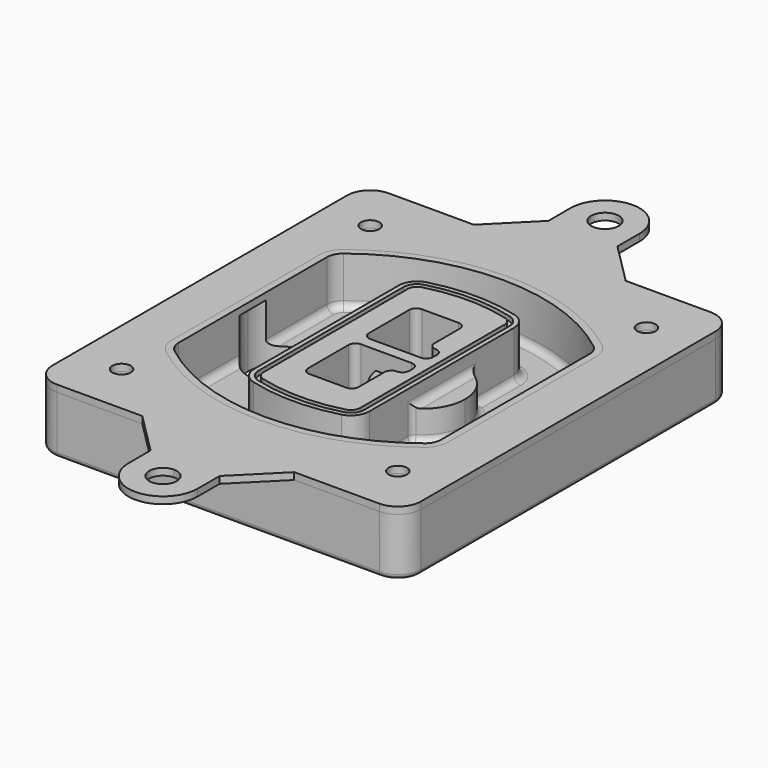
from build123d import *

# Parameters (mm, degrees)
F0_R      = 4
F1_DEPTH  = 25
F2_DEPTH  = 3
F3_DEPTH  = 18
F5_DEPTH  = 21
F6_DEPTH  = 2
F8_DEPTH  = 20
F9_DEPTH  = 16
F10_DEPTH = 25
F7_R      = 6
F7_R_2    = 4
F11_DEPTH = 6
F13_DEPTH = 9
F14_R     = 3
F15_R     = 2
F16_R     = 6
F16_R_2   = 4
F17_DEPTH = 3


with BuildPart() as f1:
    # F0 (on Top) → F1 (new body)
    with BuildSketch(Plane.XY):
        with BuildLine():
            ThreePointArc((14.05, 38.3825811321), (16.9789321881, 31.3115133202), (24.05, 28.3825811321))
            Line((24.05, 28.3825811321), (164.05, 28.3825811321))
            ThreePointArc((164.05, 28.3825811321), (171.1210678119, 31.3115133202), (174.05, 38.3825811321))
            Line((174.05, 38.3825811321), (174.05, 198.3825811321))
            ThreePointArc((174.05, 198.3825811321), (171.1210678119, 205.4536489439), (164.05, 208.3825811321))
            Line((164.05, 208.3825811321), (24.05, 208.3825811321))
            ThreePointArc((24.05, 208.3825811321), (16.9789321881, 205.4536489439), (14.05, 198.3825811321))
            Line((14.05, 198.3825811321), (14.05, 38.3825811321))
        make_face()
        with Locations((34.05, 50.8825811321)):
            Circle(F0_R, mode=Mode.SUBTRACT)
        with Locations((154.05, 50.8825811321)):
            Circle(F0_R, mode=Mode.SUBTRACT)
        with BuildLine():
            ThreePointArc((30.05, 158.6760234193), (31.4679615202, 164.8154295545), (35.4346153846, 169.7112011673))
            ThreePointArc((35.4346153846, 169.7112011673), (94.05, 189.8825811321), (152.6653846154, 169.7112011673))
            ThreePointArc((152.6653846154, 169.7112011673), (156.6320384798, 164.8154295545), (158.05, 158.6760234193))
            Line((158.05, 158.6760234193), (158.05, 78.0891388448))
            ThreePointArc((158.05, 78.0891388448), (156.6320384798, 71.9497327097), (152.6653846154, 67.0539610969))
            ThreePointArc((152.6653846154, 67.0539610969), (94.05, 46.8825811321), (35.4346153846, 67.0539610969))
            ThreePointArc((35.4346153846, 67.0539610969), (31.4679615202, 71.9497327097), (30.05, 78.0891388448))
            Line((30.05, 78.0891388448), (30.05, 158.6760234193))
        make_face(mode=Mode.SUBTRACT)
        with Locations((34.05, 185.8825811321)):
            Circle(F0_R, mode=Mode.SUBTRACT)
        with Locations((154.05, 185.8825811321)):
            Circle(F0_R, mode=Mode.SUBTRACT)
        with BuildLine():
            ThreePointArc((152.6653846154, 169.7112011673), (94.05, 189.8825811321), (35.4346153846, 169.7112011673))
            ThreePointArc((35.4346153846, 169.7112011673), (31.4679615202, 164.8154295545), (30.05, 158.6760234193))
            Line((30.05, 158.6760234193), (30.05, 78.0891388448))
            ThreePointArc((30.05, 78.0891388448), (31.4679615202, 71.9497327097), (35.4346153846, 67.0539610969))
            ThreePointArc((35.4346153846, 67.0539610969), (94.05, 46.8825811321), (152.6653846154, 67.0539610969))
            ThreePointArc((152.6653846154, 67.0539610969), (156.6320384798, 71.9497327097), (158.05, 78.0891388448))
            Line((158.05, 78.0891388448), (158.05, 158.6760234193))
            ThreePointArc((158.05, 158.6760234193), (156.6320384798, 164.8154295545), (152.6653846154, 169.7112011673))
        make_face()
        with BuildLine():
            Line((34.05, 78.0891388448), (34.05, 158.6760234193))
            ThreePointArc((34.05, 158.6760234193), (35.0628296573, 163.0613135158), (37.8961538462, 166.5582932393))
            ThreePointArc((37.8961538462, 166.5582932393), (94.05, 185.8825811321), (150.2038461538, 166.5582932393))
            ThreePointArc((150.2038461538, 166.5582932393), (153.0371703427, 163.0613135158), (154.05, 158.6760234193))
            Line((154.05, 158.6760234193), (154.05, 78.0891388448))
            ThreePointArc((154.05, 78.0891388448), (153.0371703427, 73.7038487483), (150.2038461538, 70.2068690248))
            ThreePointArc((150.2038461538, 70.2068690248), (94.05, 50.8825811321), (37.8961538462, 70.2068690248))
            ThreePointArc((37.8961538462, 70.2068690248), (35.0628296573, 73.7038487483), (34.05, 78.0891388448))
        make_face(mode=Mode.SUBTRACT)
        with BuildLine():
            ThreePointArc((37.8961538462, 166.5582932393), (35.0628296573, 163.0613135158), (34.05, 158.6760234193))
            Line((34.05, 158.6760234193), (34.05, 78.0891388448))
            ThreePointArc((34.05, 78.0891388448), (35.0628296573, 73.7038487483), (37.8961538462, 70.2068690248))
            ThreePointArc((37.8961538462, 70.2068690248), (94.05, 50.8825811321), (150.2038461538, 70.2068690248))
            ThreePointArc((150.2038461538, 70.2068690248), (153.0371703427, 73.7038487483), (154.05, 78.0891388448))
            Line((154.05, 78.0891388448), (154.05, 158.6760234193))
            ThreePointArc((154.05, 158.6760234193), (153.0371703427, 163.0613135158), (150.2038461538, 166.5582932393))
            ThreePointArc((150.2038461538, 166.5582932393), (94.05, 185.8825811321), (37.8961538462, 166.5582932393))
        make_face()
        with BuildLine():
            ThreePointArc((148.3576923077, 164.1936122933), (150.3410192399, 161.7457264869), (151.05, 158.6760234193))
            Line((151.05, 158.6760234193), (151.05, 78.0891388448))
            ThreePointArc((151.05, 78.0891388448), (150.3410192399, 75.0194357772), (148.3576923077, 72.5715499708))
            ThreePointArc((148.3576923077, 72.5715499708), (94.05, 53.8825811321), (39.7423076923, 72.5715499708))
            ThreePointArc((39.7423076923, 72.5715499708), (37.7589807601, 75.0194357772), (37.05, 78.0891388448))
            Line((37.05, 78.0891388448), (37.05, 158.6760234193))
            ThreePointArc((37.05, 158.6760234193), (37.7589807601, 161.7457264869), (39.7423076923, 164.1936122933))
            ThreePointArc((39.7423076923, 164.1936122933), (94.05, 182.8825811321), (148.3576923077, 164.1936122933))
        make_face(mode=Mode.SUBTRACT)
        with BuildLine():
            Line((151.05, 78.0891388448), (151.05, 158.6760234193))
            ThreePointArc((151.05, 158.6760234193), (150.3410192399, 161.7457264869), (148.3576923077, 164.1936122933))
            ThreePointArc((148.3576923077, 164.1936122933), (94.05, 182.8825811321), (39.7423076923, 164.1936122933))
            ThreePointArc((39.7423076923, 164.1936122933), (37.7589807601, 161.7457264869), (37.05, 158.6760234193))
            Line((37.05, 158.6760234193), (37.05, 78.0891388448))
            ThreePointArc((37.05, 78.0891388448), (37.7589807601, 75.0194357772), (39.7423076923, 72.5715499708))
            ThreePointArc((39.7423076923, 72.5715499708), (94.05, 53.8825811321), (148.3576923077, 72.5715499708))
            ThreePointArc((148.3576923077, 72.5715499708), (150.3410192399, 75.0194357772), (151.05, 78.0891388448))
        make_face()
    extrude(amount=-F1_DEPTH)

    # F0 (on Top) → F2 (join)
    with BuildSketch(Plane.XY):
        with BuildLine():
            ThreePointArc((37.8961538462, 166.5582932393), (35.0628296573, 163.0613135158), (34.05, 158.6760234193))
            Line((34.05, 158.6760234193), (34.05, 78.0891388448))
            ThreePointArc((34.05, 78.0891388448), (35.0628296573, 73.7038487483), (37.8961538462, 70.2068690248))
            ThreePointArc((37.8961538462, 70.2068690248), (94.05, 50.8825811321), (150.2038461538, 70.2068690248))
            ThreePointArc((150.2038461538, 70.2068690248), (153.0371703427, 73.7038487483), (154.05, 78.0891388448))
            Line((154.05, 78.0891388448), (154.05, 158.6760234193))
            ThreePointArc((154.05, 158.6760234193), (153.0371703427, 163.0613135158), (150.2038461538, 166.5582932393))
            ThreePointArc((150.2038461538, 166.5582932393), (94.05, 185.8825811321), (37.8961538462, 166.5582932393))
        make_face()
        with BuildLine():
            ThreePointArc((148.3576923077, 164.1936122933), (150.3410192399, 161.7457264869), (151.05, 158.6760234193))
            Line((151.05, 158.6760234193), (151.05, 78.0891388448))
            ThreePointArc((151.05, 78.0891388448), (150.3410192399, 75.0194357772), (148.3576923077, 72.5715499708))
            ThreePointArc((148.3576923077, 72.5715499708), (94.05, 53.8825811321), (39.7423076923, 72.5715499708))
            ThreePointArc((39.7423076923, 72.5715499708), (37.7589807601, 75.0194357772), (37.05, 78.0891388448))
            Line((37.05, 78.0891388448), (37.05, 158.6760234193))
            ThreePointArc((37.05, 158.6760234193), (37.7589807601, 161.7457264869), (39.7423076923, 164.1936122933))
            ThreePointArc((39.7423076923, 164.1936122933), (94.05, 182.8825811321), (148.3576923077, 164.1936122933))
        make_face(mode=Mode.SUBTRACT)
    extrude(amount=F2_DEPTH)

    # F0 (on Top) → F3 (cut)
    with BuildSketch(Plane.XY):
        with BuildLine():
            Line((151.05, 78.0891388448), (151.05, 158.6760234193))
            ThreePointArc((151.05, 158.6760234193), (150.3410192399, 161.7457264869), (148.3576923077, 164.1936122933))
            ThreePointArc((148.3576923077, 164.1936122933), (94.05, 182.8825811321), (39.7423076923, 164.1936122933))
            ThreePointArc((39.7423076923, 164.1936122933), (37.7589807601, 161.7457264869), (37.05, 158.6760234193))
            Line((37.05, 158.6760234193), (37.05, 78.0891388448))
            ThreePointArc((37.05, 78.0891388448), (37.7589807601, 75.0194357772), (39.7423076923, 72.5715499708))
            ThreePointArc((39.7423076923, 72.5715499708), (94.05, 53.8825811321), (148.3576923077, 72.5715499708))
            ThreePointArc((148.3576923077, 72.5715499708), (150.3410192399, 75.0194357772), (151.05, 78.0891388448))
        make_face()
    extrude(amount=-F3_DEPTH, mode=Mode.SUBTRACT)

    # F4 (on face) → F5 (join, through all)
    with BuildSketch(Plane.XY.offset(3)):
        with BuildLine():
            ThreePointArc((69.05, 79.13605345), (70.6988454002, 74.2716074128), (74.9657088123, 71.4123412437))
            ThreePointArc((74.9657088123, 71.4123412437), (94.05, 68.8825811321), (113.1342911877, 71.4123412437))
            ThreePointArc((113.1342911877, 71.4123412437), (117.4011545998, 74.2716074128), (119.05, 79.13605345))
            Line((119.05, 79.13605345), (119.05, 157.6291088141))
            ThreePointArc((119.05, 157.6291088141), (117.4011545998, 162.4935548514), (113.1342911877, 165.3528210204))
            ThreePointArc((113.1342911877, 165.3528210204), (94.05, 167.8825811321), (74.9657088123, 165.3528210204))
            ThreePointArc((74.9657088123, 165.3528210204), (70.6988454002, 162.4935548514), (69.05, 157.6291088141))
            Line((69.05, 157.6291088141), (69.05, 79.13605345))
        make_face()
        with BuildLine():
            ThreePointArc((112.6132183908, 163.4218929688), (115.8133659499, 161.2774433421), (117.05, 157.6291088141))
            Line((117.05, 157.6291088141), (117.05, 79.13605345))
            ThreePointArc((117.05, 79.13605345), (115.8133659499, 75.4877189221), (112.6132183908, 73.3432692953))
            ThreePointArc((112.6132183908, 73.3432692953), (94.05, 70.8825811321), (75.4867816092, 73.3432692953))
            ThreePointArc((75.4867816092, 73.3432692953), (72.2866340501, 75.4877189221), (71.05, 79.13605345))
            Line((71.05, 79.13605345), (71.05, 157.6291088141))
            ThreePointArc((71.05, 157.6291088141), (72.2866340501, 161.2774433421), (75.4867816092, 163.4218929688))
            ThreePointArc((75.4867816092, 163.4218929688), (94.05, 165.8825811321), (112.6132183908, 163.4218929688))
        make_face(mode=Mode.SUBTRACT)
        with BuildLine():
            Line((117.05, 79.13605345), (117.05, 157.6291088141))
            ThreePointArc((117.05, 157.6291088141), (115.8133659499, 161.2774433421), (112.6132183908, 163.4218929688))
            ThreePointArc((112.6132183908, 163.4218929688), (94.05, 165.8825811321), (75.4867816092, 163.4218929688))
            ThreePointArc((75.4867816092, 163.4218929688), (72.2866340501, 161.2774433421), (71.05, 157.6291088141))
            Line((71.05, 157.6291088141), (71.05, 79.13605345))
            ThreePointArc((71.05, 79.13605345), (72.2866340501, 75.4877189221), (75.4867816092, 73.3432692953))
            ThreePointArc((75.4867816092, 73.3432692953), (94.05, 70.8825811321), (112.6132183908, 73.3432692953))
            ThreePointArc((112.6132183908, 73.3432692953), (115.8133659499, 75.4877189221), (117.05, 79.13605345))
        make_face()
        with BuildLine():
            ThreePointArc((112.0921455939, 161.4909649173), (114.2255772999, 160.0613318328), (115.05, 157.6291088141))
            Line((115.05, 157.6291088141), (115.05, 79.13605345))
            ThreePointArc((115.05, 79.13605345), (114.2255772999, 76.7038304314), (112.0921455939, 75.2741973469))
            ThreePointArc((112.0921455939, 75.2741973469), (94.05, 72.8825811321), (76.0078544061, 75.2741973469))
            ThreePointArc((76.0078544061, 75.2741973469), (73.8744227001, 76.7038304314), (73.05, 79.13605345))
            Line((73.05, 79.13605345), (73.05, 157.6291088141))
            ThreePointArc((73.05, 157.6291088141), (73.8744227001, 160.0613318328), (76.0078544061, 161.4909649173))
            ThreePointArc((76.0078544061, 161.4909649173), (94.05, 163.8825811321), (112.0921455939, 161.4909649173))
        make_face(mode=Mode.SUBTRACT)
        with BuildLine():
            Line((115.05, 79.13605345), (115.05, 157.6291088141))
            ThreePointArc((115.05, 157.6291088141), (114.2255772999, 160.0613318328), (112.0921455939, 161.4909649173))
            ThreePointArc((112.0921455939, 161.4909649173), (94.05, 163.8825811321), (76.0078544061, 161.4909649173))
            ThreePointArc((76.0078544061, 161.4909649173), (73.8744227001, 160.0613318328), (73.05, 157.6291088141))
            Line((73.05, 157.6291088141), (73.05, 79.13605345))
            ThreePointArc((73.05, 79.13605345), (73.8744227001, 76.7038304314), (76.0078544061, 75.2741973469))
            ThreePointArc((76.0078544061, 75.2741973469), (94.05, 72.8825811321), (112.0921455939, 75.2741973469))
            ThreePointArc((112.0921455939, 75.2741973469), (114.2255772999, 76.7038304314), (115.05, 79.13605345))
        make_face()
        with BuildLine():
            Line((86.05, 115.8825811321), (108.05, 115.8825811321))
            ThreePointArc((108.05, 115.8825811321), (110.1713203436, 115.0039014756), (111.05, 112.8825811321))
            Line((111.05, 112.8825811321), (111.05, 110.8825811321))
            ThreePointArc((111.05, 110.8825811321), (110.1713203436, 108.7612607885), (108.05, 107.8825811321))
            ThreePointArc((108.05, 107.8825811321), (105.9286796564, 107.0039014756), (105.05, 104.8825811321))
            Line((105.05, 104.8825811321), (105.05, 90.8825811321))
            ThreePointArc((105.05, 90.8825811321), (104.1713203436, 88.7612607885), (102.05, 87.8825811321))
            Line((102.05, 87.8825811321), (86.05, 87.8825811321))
            ThreePointArc((86.05, 87.8825811321), (83.9286796564, 88.7612607885), (83.05, 90.8825811321))
            Line((83.05, 90.8825811321), (83.05, 112.8825811321))
            ThreePointArc((83.05, 112.8825811321), (83.9286796564, 115.0039014756), (86.05, 115.8825811321))
        make_face(mode=Mode.SUBTRACT)
        with BuildLine():
            ThreePointArc((86.05, 120.8825811321), (83.9286796564, 121.7612607885), (83.05, 123.8825811321))
            Line((83.05, 123.8825811321), (83.05, 145.8825811321))
            ThreePointArc((83.05, 145.8825811321), (83.9286796564, 148.0039014756), (86.05, 148.8825811321))
            Line((86.05, 148.8825811321), (102.05, 148.8825811321))
            ThreePointArc((102.05, 148.8825811321), (104.1713203436, 148.0039014756), (105.05, 145.8825811321))
            Line((105.05, 145.8825811321), (105.05, 131.8825811321))
            ThreePointArc((105.05, 131.8825811321), (105.9286796564, 129.7612607885), (108.05, 128.8825811321))
            ThreePointArc((108.05, 128.8825811321), (110.1713203436, 128.0039014756), (111.05, 125.8825811321))
            Line((111.05, 125.8825811321), (111.05, 123.8825811321))
            ThreePointArc((111.05, 123.8825811321), (110.1713203436, 121.7612607885), (108.05, 120.8825811321))
            Line((108.05, 120.8825811321), (86.05, 120.8825811321))
        make_face(mode=Mode.SUBTRACT)
    extrude(amount=-F5_DEPTH)

    # F4 (on face) → F6 (cut)
    with BuildSketch(Plane.XY.offset(3)):
        with BuildLine():
            Line((117.05, 79.13605345), (117.05, 157.6291088141))
            ThreePointArc((117.05, 157.6291088141), (115.8133659499, 161.2774433421), (112.6132183908, 163.4218929688))
            ThreePointArc((112.6132183908, 163.4218929688), (94.05, 165.8825811321), (75.4867816092, 163.4218929688))
            ThreePointArc((75.4867816092, 163.4218929688), (72.2866340501, 161.2774433421), (71.05, 157.6291088141))
            Line((71.05, 157.6291088141), (71.05, 79.13605345))
            ThreePointArc((71.05, 79.13605345), (72.2866340501, 75.4877189221), (75.4867816092, 73.3432692953))
            ThreePointArc((75.4867816092, 73.3432692953), (94.05, 70.8825811321), (112.6132183908, 73.3432692953))
            ThreePointArc((112.6132183908, 73.3432692953), (115.8133659499, 75.4877189221), (117.05, 79.13605345))
        make_face()
        with BuildLine():
            ThreePointArc((112.0921455939, 161.4909649173), (114.2255772999, 160.0613318328), (115.05, 157.6291088141))
            Line((115.05, 157.6291088141), (115.05, 79.13605345))
            ThreePointArc((115.05, 79.13605345), (114.2255772999, 76.7038304314), (112.0921455939, 75.2741973469))
            ThreePointArc((112.0921455939, 75.2741973469), (94.05, 72.8825811321), (76.0078544061, 75.2741973469))
            ThreePointArc((76.0078544061, 75.2741973469), (73.8744227001, 76.7038304314), (73.05, 79.13605345))
            Line((73.05, 79.13605345), (73.05, 157.6291088141))
            ThreePointArc((73.05, 157.6291088141), (73.8744227001, 160.0613318328), (76.0078544061, 161.4909649173))
            ThreePointArc((76.0078544061, 161.4909649173), (94.05, 163.8825811321), (112.0921455939, 161.4909649173))
        make_face(mode=Mode.SUBTRACT)
    extrude(amount=-F6_DEPTH, mode=Mode.SUBTRACT)

    # F7 (on face) → F8 (join)
    with BuildSketch(Plane(origin=(0, 0, -25), x_dir=(1, 0, 0), z_dir=(0, 0, -1))):
        with BuildLine():
            ThreePointArc((97.33842436, -118.3825811321), (110.8067035675, -104.9143019245), (124.274982775, -118.3825811321))
            Line((124.274982775, -118.3825811321), (129.274982775, -118.3825811321))
            ThreePointArc((129.274982775, -118.3825811321), (110.8067035675, -99.9143019245), (92.33842436, -118.3825811321))
            Line((92.33842436, -118.3825811321), (97.33842436, -118.3825811321))
        make_face()
        with BuildLine():
            Line((97.33842436, -118.3825811321), (124.274982775, -118.3825811321))
            ThreePointArc((124.274982775, -118.3825811321), (110.8067035675, -104.9143019245), (97.33842436, -118.3825811321))
        make_face()
        with BuildLine():
            ThreePointArc((97.33842436, -118.3825811321), (110.8067035675, -131.8508603396), (124.274982775, -118.3825811321))
            Line((124.274982775, -118.3825811321), (97.33842436, -118.3825811321))
        make_face()
        with BuildLine():
            Line((129.274982775, -118.3825811321), (124.274982775, -118.3825811321))
            ThreePointArc((124.274982775, -118.3825811321), (110.8067035675, -131.8508603396), (97.33842436, -118.3825811321))
            Line((97.33842436, -118.3825811321), (92.33842436, -118.3825811321))
            ThreePointArc((92.33842436, -118.3825811321), (110.8067035675, -136.8508603396), (129.274982775, -118.3825811321))
        make_face()
    extrude(amount=-F8_DEPTH)

    # F7 (on face) → F9 (cut)
    with BuildSketch(Plane(origin=(0, 0, -25), x_dir=(1, 0, 0), z_dir=(0, 0, -1))):
        with BuildLine():
            Line((97.33842436, -118.3825811321), (124.274982775, -118.3825811321))
            ThreePointArc((124.274982775, -118.3825811321), (110.8067035675, -104.9143019245), (97.33842436, -118.3825811321))
        make_face()
        with BuildLine():
            ThreePointArc((97.33842436, -118.3825811321), (110.8067035675, -131.8508603396), (124.274982775, -118.3825811321))
            Line((124.274982775, -118.3825811321), (97.33842436, -118.3825811321))
        make_face()
    extrude(amount=-F9_DEPTH, mode=Mode.SUBTRACT)

    # F7 (on face) → F10 (cut)
    with BuildSketch(Plane(origin=(0, 0, -25), x_dir=(1, 0, 0), z_dir=(0, 0, -1))):
        with BuildLine():
            Line((35.0181770675, -118.3825811321), (61.9547354825, -118.3825811321))
            ThreePointArc((61.9547354825, -118.3825811321), (48.486456275, -104.9143019245), (35.0181770675, -118.3825811321))
        make_face()
        with BuildLine():
            ThreePointArc((35.0181770675, -118.3825811321), (48.486456275, -131.8508603396), (61.9547354825, -118.3825811321))
            Line((61.9547354825, -118.3825811321), (35.0181770675, -118.3825811321))
        make_face()
    extrude(amount=-F10_DEPTH, mode=Mode.SUBTRACT)

    # F7 (on face) → F11 (cut)
    with BuildSketch(Plane(origin=(0, 0, -25), x_dir=(1, 0, 0), z_dir=(0, 0, -1))):
        with Locations((154.05, -185.8825811321)):
            Circle(F7_R)
        with Locations((154.05, -185.8825811321)):
            Circle(F7_R_2, mode=Mode.SUBTRACT)
        with Locations((154.05, -185.8825811321)):
            Circle(F7_R)
        with Locations((154.05, -185.8825811321)):
            Circle(F7_R_2, mode=Mode.SUBTRACT)
        with Locations((34.05, -185.8825811321)):
            Circle(F7_R)
        with Locations((34.05, -185.8825811321)):
            Circle(F7_R_2, mode=Mode.SUBTRACT)
        with Locations((34.05, -185.8825811321)):
            Circle(F7_R)
        with Locations((34.05, -185.8825811321)):
            Circle(F7_R_2, mode=Mode.SUBTRACT)
        with Locations((34.05, -50.8825811321)):
            Circle(F7_R)
        with Locations((34.05, -50.8825811321)):
            Circle(F7_R_2, mode=Mode.SUBTRACT)
        with Locations((34.05, -50.8825811321)):
            Circle(F7_R)
        with Locations((34.05, -50.8825811321)):
            Circle(F7_R_2, mode=Mode.SUBTRACT)
        with Locations((154.05, -50.8825811321)):
            Circle(F7_R)
        with Locations((154.05, -50.8825811321)):
            Circle(F7_R_2, mode=Mode.SUBTRACT)
        with Locations((154.05, -50.8825811321)):
            Circle(F7_R)
        with Locations((154.05, -50.8825811321)):
            Circle(F7_R_2, mode=Mode.SUBTRACT)
    extrude(amount=-F11_DEPTH, mode=Mode.SUBTRACT)

    # F12 (on face) → F13 (cut, through all)
    with BuildSketch(Plane(origin=(0, 0, -9), x_dir=(1, 0, 0), z_dir=(0, 0, -1))):
        with BuildLine():
            Line((105.05, -104.8825811321), (105.05, -100.8344273567))
            ThreePointArc((105.05, -100.8344273567), (96.6196536419, -106.5586667507), (92.5084157545, -115.8825811321))
            Line((92.5084157545, -115.8825811321), (97.5724848595, -115.8825811321))
            ThreePointArc((97.5724848595, -115.8825811321), (100.2357188154, -110.0369939039), (105.3036447004, -106.0898642673))
            ThreePointArc((105.3036447004, -106.0898642673), (105.1140958889, -105.4994012441), (105.05, -104.8825811321))
        make_face()
        with BuildLine():
            ThreePointArc((105.3036447004, -130.6752979968), (100.2357188154, -126.7281683602), (97.5724848595, -120.8825811321))
            Line((97.5724848595, -120.8825811321), (92.5084157545, -120.8825811321))
            ThreePointArc((92.5084157545, -120.8825811321), (96.6196536419, -130.2064955134), (105.05, -135.9307349074))
            Line((105.05, -135.9307349074), (105.05, -131.8825811321))
            ThreePointArc((105.05, -131.8825811321), (105.1140958889, -131.26576102), (105.3036447004, -130.6752979968))
        make_face()
        with BuildLine():
            ThreePointArc((105.3036447004, -106.0898642673), (100.2357188154, -110.0369939039), (97.5724848595, -115.8825811321))
            Line((97.5724848595, -115.8825811321), (108.05, -115.8825811321))
            ThreePointArc((108.05, -115.8825811321), (110.1713203436, -115.0039014756), (111.05, -112.8825811321))
            Line((111.05, -112.8825811321), (111.05, -110.8825811321))
            ThreePointArc((111.05, -110.8825811321), (110.1713203436, -108.7612607885), (108.05, -107.8825811321))
            ThreePointArc((108.05, -107.8825811321), (106.4101599782, -107.3947365219), (105.3036447004, -106.0898642673))
        make_face()
        with BuildLine():
            Line((108.05, -120.8825811321), (97.5724848595, -120.8825811321))
            ThreePointArc((97.5724848595, -120.8825811321), (100.2357188154, -126.7281683602), (105.3036447004, -130.6752979968))
            ThreePointArc((105.3036447004, -130.6752979968), (106.4101599782, -129.3704257422), (108.05, -128.8825811321))
            ThreePointArc((108.05, -128.8825811321), (110.1713203436, -128.0039014756), (111.05, -125.8825811321))
            Line((111.05, -125.8825811321), (111.05, -123.8825811321))
            ThreePointArc((111.05, -123.8825811321), (110.1713203436, -121.7612607885), (108.05, -120.8825811321))
        make_face()
    extrude(amount=F13_DEPTH, mode=Mode.SUBTRACT)

    # F14
    f14_edges = [f1.edges().sort_by_distance(p)[0] for p in [
        (37.05, 94.679105, -18),
        (37.05, 142.086057, -18),
        (119.05, 118.382581, -5),
        (119.05, 134.909087, -11.5),
        (119.05, 101.856075, -11.5),
        (119.05, 90.496064, -18),
        (129.274983, 118.382581, -18),
    ]]
    fillet(f14_edges, radius=F14_R)

    # F15
    f15_edges = [f1.edges().sort_by_distance(p)[0] for p in [
        (94.05, 28.382581, -25),
    ]]
    fillet(f15_edges, radius=F15_R)


with BuildPart() as f17:
    # F16 (on face) → F17 (new body, through all)
    with BuildSketch(Plane.XY):
        with BuildLine():
            Line((94.05, 28.3825811321), (61.05, 28.3825811321))
            Line((61.05, 28.3825811321), (79.05, 10.3825811321))
            Line((79.05, 10.3825811321), (79.05, -1.6174188679))
            ThreePointArc((79.05, -1.6174188679), (94.05, -16.6174188679), (109.05, -1.6174188679))
            Line((109.05, -1.6174188679), (109.05, 10.3825811321))
            Line((109.05, 10.3825811321), (127.05, 28.3825811321))
            Line((127.05, 28.3825811321), (94.05, 28.3825811321))
        make_face()
        with BuildLine():
            ThreePointArc((100.05, -1.6174188679), (89.8073593129, -5.8600595551), (94.05, 4.3825811321))
            ThreePointArc((94.05, 4.3825811321), (98.2926406871, 2.6252218192), (100.05, -1.6174188679))
        make_face(mode=Mode.SUBTRACT)
        with BuildLine():
            ThreePointArc((109.05, 238.3825811321), (94.05, 253.3825811321), (79.05, 238.3825811321))
            Line((79.05, 238.3825811321), (79.05, 226.3825811321))
            Line((79.05, 226.3825811321), (61.05, 208.3825811321))
            Line((61.05, 208.3825811321), (127.05, 208.3825811321))
            Line((127.05, 208.3825811321), (109.05, 226.3825811321))
            Line((109.05, 226.3825811321), (109.05, 238.3825811321))
        make_face()
        with Locations((94.05, 238.3825811321)):
            Circle(F16_R, mode=Mode.SUBTRACT)
        with BuildLine():
            Line((127.05, 208.3825811321), (61.05, 208.3825811321))
            Line((61.05, 208.3825811321), (24.05, 208.3825811321))
            ThreePointArc((24.05, 208.3825811321), (16.9789321881, 205.4536489439), (14.05, 198.3825811321))
            Line((14.05, 198.3825811321), (14.05, 38.3825811321))
            ThreePointArc((14.05, 38.3825811321), (16.9789321881, 31.3115133202), (24.05, 28.3825811321))
            Line((24.05, 28.3825811321), (61.05, 28.3825811321))
            Line((61.05, 28.3825811321), (94.05, 28.3825811321))
            Line((94.05, 28.3825811321), (127.05, 28.3825811321))
            Line((127.05, 28.3825811321), (164.05, 28.3825811321))
            ThreePointArc((164.05, 28.3825811321), (171.1210678119, 31.3115133202), (174.05, 38.3825811321))
            Line((174.05, 38.3825811321), (174.05, 198.3825811321))
            ThreePointArc((174.05, 198.3825811321), (171.1210678119, 205.4536489439), (164.05, 208.3825811321))
            Line((164.05, 208.3825811321), (127.05, 208.3825811321))
        make_face()
        with Locations((34.05, 50.8825811321)):
            Circle(F16_R_2, mode=Mode.SUBTRACT)
        with BuildLine():
            ThreePointArc((34.05, 158.6760234193), (35.0628296573, 163.0613135158), (37.8961538462, 166.5582932393))
            ThreePointArc((37.8961538462, 166.5582932393), (94.05, 185.8825811321), (150.2038461538, 166.5582932393))
            ThreePointArc((150.2038461538, 166.5582932393), (153.0371703427, 163.0613135158), (154.05, 158.6760234193))
            Line((154.05, 158.6760234193), (154.05, 78.0891388448))
            ThreePointArc((154.05, 78.0891388448), (153.0371703427, 73.7038487483), (150.2038461538, 70.2068690248))
            ThreePointArc((150.2038461538, 70.2068690248), (94.05, 50.8825811321), (37.8961538462, 70.2068690248))
            ThreePointArc((37.8961538462, 70.2068690248), (35.0628296573, 73.7038487483), (34.05, 78.0891388448))
            Line((34.05, 78.0891388448), (34.05, 158.6760234193))
        make_face(mode=Mode.SUBTRACT)
        with Locations((154.05, 50.8825811321)):
            Circle(F16_R_2, mode=Mode.SUBTRACT)
        with Locations((34.05, 185.8825811321)):
            Circle(F16_R_2, mode=Mode.SUBTRACT)
        with Locations((154.05, 185.8825811321)):
            Circle(F16_R_2, mode=Mode.SUBTRACT)
    extrude(amount=F17_DEPTH)


solid = Compound([f1.part, f17.part])
